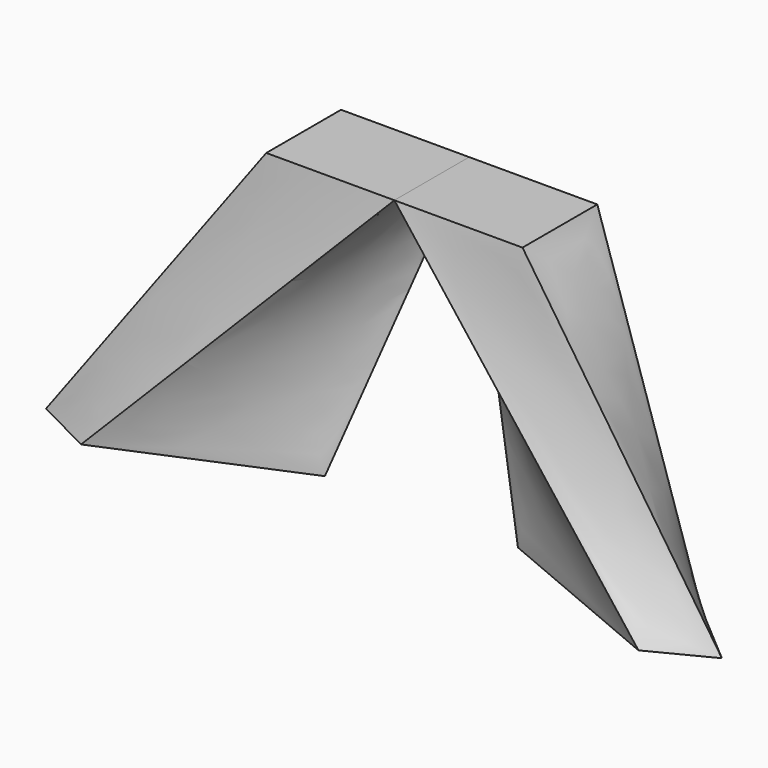
from build123d import *

# Parameters (mm, degrees)
F2_W = 11.299124
F2_H = 8.245305


with BuildPart() as f3:
    # F0 (on Top) → F3 section 0
    with BuildSketch(Plane.XY):
        Polygon((29.80184, -9.388764), (24.850558, -5.267834), (8.512636, -5.267834), (24.583224, -12.062577), align=None)
    # F2 (on offset) → F3 section 1
    with BuildSketch(Plane.XY.offset(25.4)):
        with Locations((5.649562, -4.122653)):
            Rectangle(F2_W, F2_H)
    loft()


with BuildPart() as f4_1:
    # F4: instance of F3
    add(f3.part.mirror(Plane.YZ))


solid = Compound([f3.part, f4_1.part])
